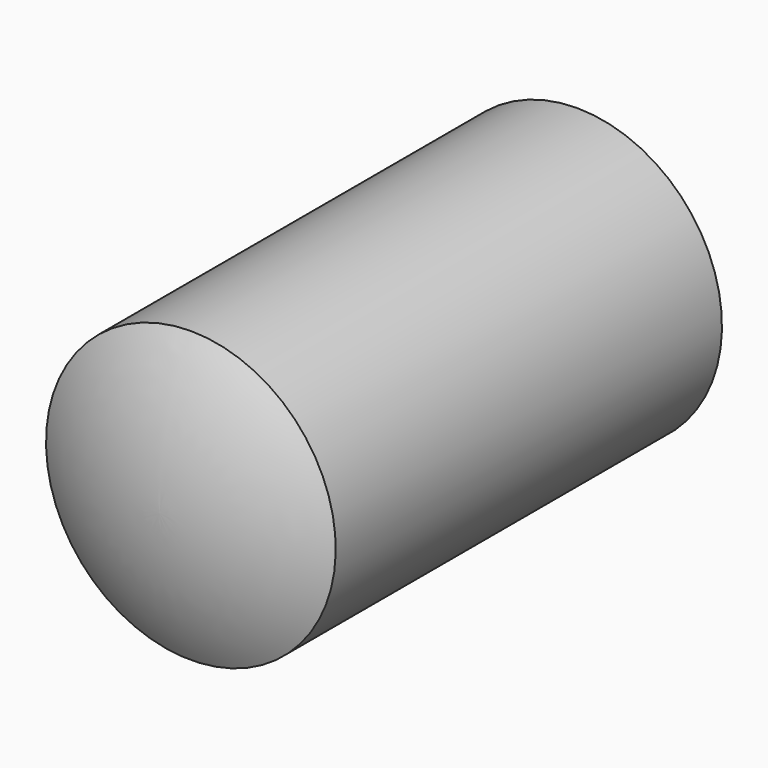
from build123d import *


with BuildPart() as part:
    # Sketch → Revolution (revolve)
    with BuildSketch(Plane.YZ):
        with BuildLine():
            ThreePointArc((10.803848, 0), (10.599403, 1.552914), (10, 3))
            Line((0, 3), (10, 3))
            ThreePointArc((0, 3), (-0.599403, 1.552914), (-0.803848, 0))
            Line((-0.803848, 0), (10.803848, 0))
        make_face()
    revolve(axis=Axis((0, 0, 0), (0, 1, 0)))


solid = part.part
